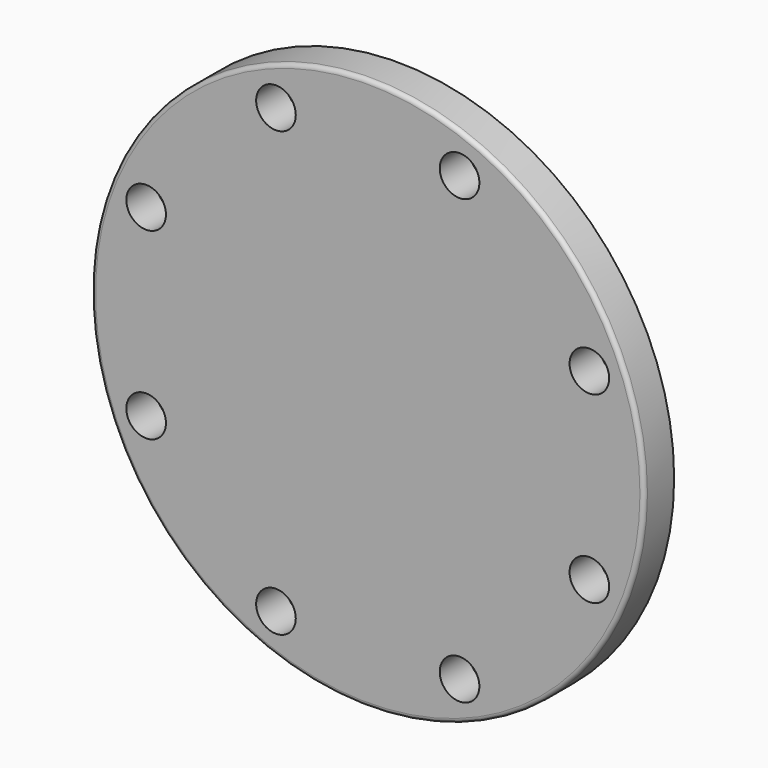
from build123d import *

# Parameters (mm, degrees)
F0_R     = 132.5
F0_R_2   = 9.5
F1_DEPTH = 18
F2_R     = 2


with BuildPart() as f1:
    # F0 (on Front) → F1 (new body)
    with BuildSketch(Plane.XZ):
        Circle(F0_R)
        with Locations((-44.008595, -106.246146)):
            Circle(F0_R_2, mode=Mode.SUBTRACT)
        with Locations((-106.246146, -44.008595)):
            Circle(F0_R_2, mode=Mode.SUBTRACT)
        with Locations((44.008595, -106.246146)):
            Circle(F0_R_2, mode=Mode.SUBTRACT)
        with Locations((106.246146, -44.008595)):
            Circle(F0_R_2, mode=Mode.SUBTRACT)
        with Locations((-106.246146, 44.008595)):
            Circle(F0_R_2, mode=Mode.SUBTRACT)
        with Locations((-44.008595, 106.246146)):
            Circle(F0_R_2, mode=Mode.SUBTRACT)
        with Locations((106.246146, 44.008595)):
            Circle(F0_R_2, mode=Mode.SUBTRACT)
        with Locations((44.008595, 106.246146)):
            Circle(F0_R_2, mode=Mode.SUBTRACT)
    extrude(amount=F1_DEPTH)

    # F2
    f2_edges = [f1.edges().sort_by_distance(p)[0] for p in [
        (-132.5, -18, 0),
    ]]
    fillet(f2_edges, radius=F2_R)


solid = f1.part
